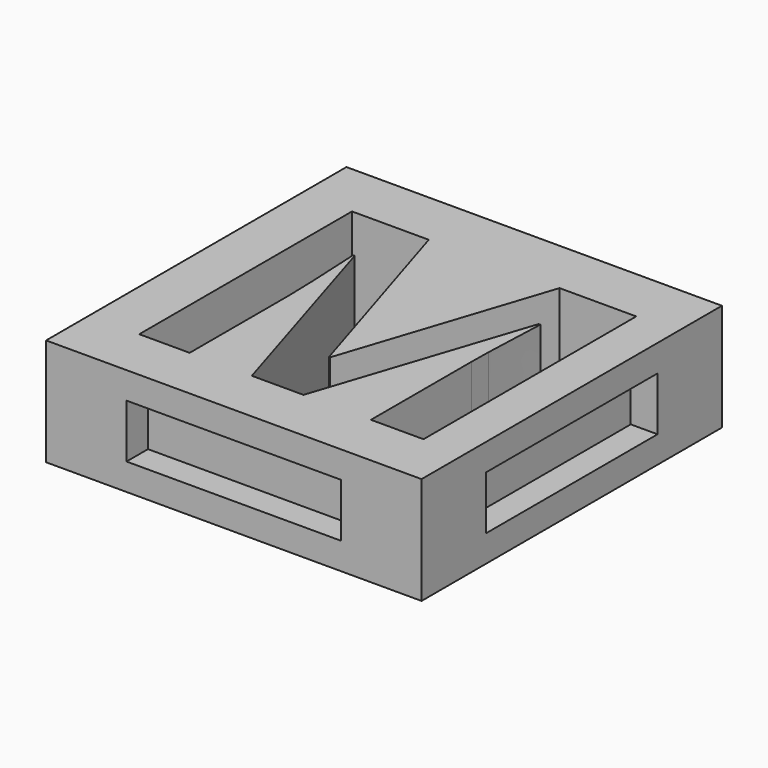
from build123d import *

# Parameters (mm, degrees)
F0_W     = 35.56
F0_H     = 35.56
F1_DEPTH = 5.08
F2_W     = 19.812
F2_H     = 4.572
F3_DEPTH = 2.54
F4_W     = 19.812
F4_H     = 4.572
F5_DEPTH = 2.54
F6_W     = 20.32
F6_H     = 5.08
F7_DEPTH = 2.54
F8_W     = 20.32
F8_H     = 5.08
F9_DEPTH = 2.54


with BuildPart() as f1:
    # F0 (on Top) → F1 (new body, symmetric)
    with BuildSketch(Plane.XY):
        Rectangle(F0_W, F0_H)
        with BuildLine():
            Line((2.5355902778, -12.7), (-2.3592013889, -12.7))
            Line((-2.3592013889, -12.7), (-8.4225694444, 7.0555555556))
            Line((-8.4225694444, 7.0555555556), (-8.5769097222, 7.0555555556))
            add(Edge.make_bspline(
                [(-8.5769097222, 7.0555555556), (-8.2461805556, 1.0307725694), (-8.2461805556, -0.9866753472)],
                knots=[0, 0, 0, 1, 1, 1], degree=2))
            Line((-8.2461805556, -0.9866753472), (-8.2461805556, -12.7))
            Line((-8.2461805556, -12.7), (-13.0197048611, -12.7))
            Line((-13.0197048611, -12.7), (-13.0197048611, 12.4850260417))
            Line((-13.0197048611, 12.4850260417), (-5.7491753472, 12.4850260417))
            Line((-5.7491753472, 12.4850260417), (0.2094618056, -6.7744357639))
            Line((0.2094618056, -6.7744357639), (0.3141927083, -6.7744357639))
            Line((0.3141927083, -6.7744357639), (6.6366319444, 12.4850260417))
            Line((6.6366319444, 12.4850260417), (13.9016493056, 12.4850260417))
            Line((13.9016493056, 12.4850260417), (13.9016493056, -12.7))
            Line((13.9016493056, -12.7), (8.9241753472, -12.7))
            Line((8.9241753472, -12.7), (8.9241753472, -0.7772135417))
            add(Edge.make_bspline(
                [(8.9241753472, -0.7772135417), (8.9241753472, 0.0661458333), (8.9517361111, 1.1685763889)],
                knots=[0, 0, 0, 1, 1, 1], degree=2))
            add(Edge.make_bspline(
                [(8.9517361111, 1.1685763889), (8.979296875, 2.2710069444), (9.1832465278, 7.0224826389)],
                knots=[0, 0, 0, 1, 1, 1], degree=2))
            Line((9.1832465278, 7.0224826389), (9.02890625, 7.0224826389))
            Line((9.02890625, 7.0224826389), (2.5355902778, -12.7))
        make_face(mode=Mode.SUBTRACT)
    extrude(amount=F1_DEPTH, both=True)

    # F2 (on face) → F3 (join)
    with BuildSketch(Plane(origin=(0, 17.78, 0), x_dir=(-1, 0, 0), z_dir=(0, 1, 0))):
        Rectangle(F2_W, F2_H)
    extrude(amount=F3_DEPTH)

    # F4 (on face) → F5 (join)
    with BuildSketch(Plane(origin=(-17.78, 0, 0), x_dir=(0, -1, 0), z_dir=(-1, 0, 0))):
        Rectangle(F4_W, F4_H)
    extrude(amount=F5_DEPTH)

    # F6 (on face) → F7 (cut)
    with BuildSketch(Plane.XZ.offset(17.78)):
        Rectangle(F6_W, F6_H)
    extrude(amount=-F7_DEPTH, mode=Mode.SUBTRACT)

    # F8 (on face) → F9 (cut)
    with BuildSketch(Plane.YZ.offset(17.78)):
        Rectangle(F8_W, F8_H)
    extrude(amount=-F9_DEPTH, mode=Mode.SUBTRACT)


solid = f1.part
